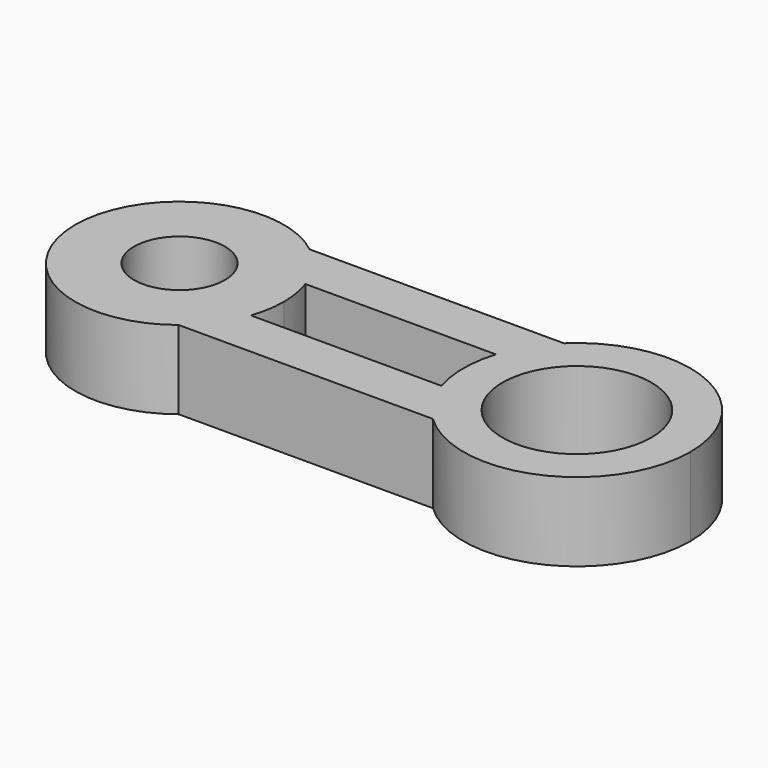
from build123d import *

# Parameters (mm, degrees)
F0_R     = 19.223271
F0_R_2   = 31.541662
F1_DEPTH = 33.274


with BuildPart() as f1:
    # F0 (on Top) → F1 (new body)
    with BuildSketch(Plane.XY):
        with BuildLine():
            Line((-8.238693, -14.410725), (-88.9008, -14.410725))
            ThreePointArc((-88.9008, -14.410725), (-94.639506, -25.573134), (-103.286065, -34.670889))
            Line((-103.286065, -34.670889), (4.343193, -34.670889))
            ThreePointArc((4.343193, -34.670889), (-3.225496, -25.334308), (-8.238693, -14.410725))
        make_face()
        with BuildLine():
            ThreePointArc((-103.286065, 34.670889), (-94.639506, 25.573134), (-88.9008, 14.410725))
            Line((-88.9008, 14.410725), (-8.238693, 14.410725))
            ThreePointArc((-8.238693, 14.410725), (-3.225496, 25.334308), (4.343193, 34.670889))
            Line((4.343193, 34.670889), (-103.286065, 34.670889))
        make_face()
        with BuildLine():
            ThreePointArc((4.343193, 34.670889), (-3.225496, 25.334308), (-8.238693, 14.410725))
            ThreePointArc((-8.238693, 14.410725), (-10.451951, 0), (-8.238693, -14.410725))
            ThreePointArc((-8.238693, -14.410725), (-3.225496, -25.334308), (4.343193, -34.670889))
            Line((4.343193, -34.670889), (4.343193, 34.670889))
        make_face()
        with BuildLine():
            ThreePointArc((-88.9008, -14.410725), (-87.092414, -7.305987), (-86.484032, 0))
            ThreePointArc((-86.484032, 0), (-87.092414, 7.305987), (-88.9008, 14.410725))
            ThreePointArc((-88.9008, 14.410725), (-94.639506, 25.573134), (-103.286065, 34.670889))
            Line((-103.286065, 34.670889), (-103.286065, -34.670889))
            ThreePointArc((-103.286065, -34.670889), (-94.639506, -25.573134), (-88.9008, -14.410725))
        make_face()
        with BuildLine():
            Line((-103.286065, -34.670889), (-103.286065, 34.670889))
            ThreePointArc((-103.286065, 34.670889), (-174.829227, 0), (-103.286065, -34.670889))
        make_face()
        with Locations((-130.65663, 0)):
            Circle(F0_R, mode=Mode.SUBTRACT)
        with BuildLine():
            ThreePointArc((85.590833, 0), (56.417298, 44.168002), (4.343193, 34.670889))
            Line((4.343193, 34.670889), (4.343193, -34.670889))
            ThreePointArc((4.343193, -34.670889), (56.417298, -44.168002), (85.590833, 0))
        make_face()
        with Locations((37.569441, 0)):
            Circle(F0_R_2, mode=Mode.SUBTRACT)
    extrude(amount=F1_DEPTH)


solid = f1.part
